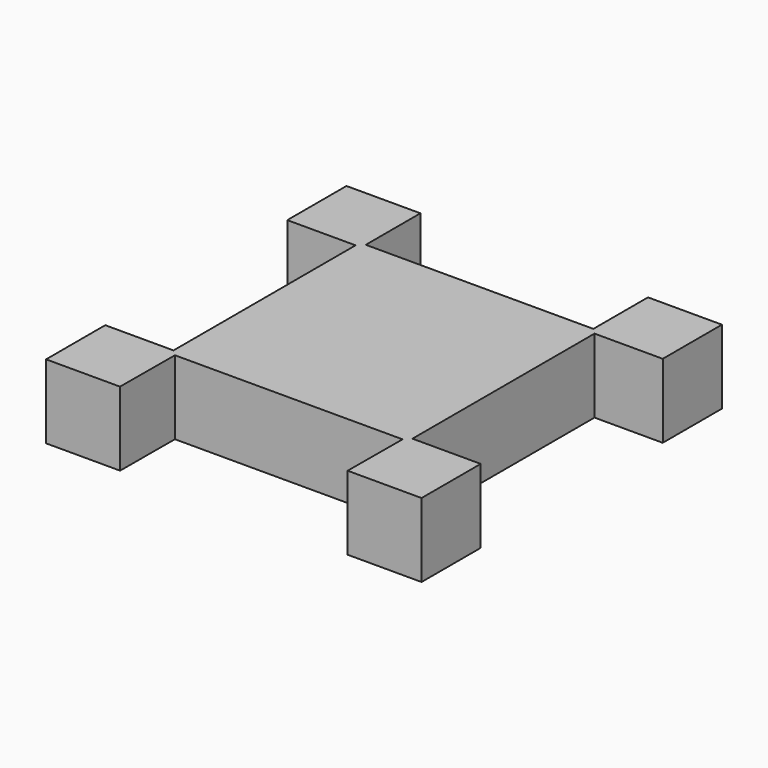
from build123d import *

# Parameters (mm, degrees)
F1_DEPTH = 6.5


with BuildPart() as f1:
    # F0 (on Top) → F1 (new body)
    with BuildSketch(Plane.XY):
        Polygon((-10, 16.5), (-16.5, 16.5), (-16.5, 10), (-10.5, 10), (-10.5, -10), (-16.5, -10), (-16.5, -16.5), (-10, -16.5), (-9.971203, -10.500069), (10.028797, -10.500069), (10, -16.5), (16.5, -16.5), (16.5, -10), (10.5, -10), (10.5, 10), (16.5, 10), (16.5, 16.5), (10, 16.5), (10, 10.5), (-10, 10.5), align=None)
        Polygon((-10, 16.5), (-16.5, 16.5), (-16.5, 10), (-10.5, 10), (-10.5, -10), (-16.5, -10), (-16.5, -16.5), (-10, -16.5), (-9.971203, -10.500069), (10.028797, -10.500069), (10, -16.5), (16.5, -16.5), (16.5, -10), (10.5, -10), (10.5, 10), (16.5, 10), (16.5, 16.5), (10, 16.5), (10, 10.5), (-10, 10.5), align=None)
        Polygon((-10, 16.5), (-16.5, 16.5), (-16.5, 10), (-10.5, 10), (-10.5, -10), (-16.5, -10), (-16.5, -16.5), (-10, -16.5), (-9.971203, -10.500069), (10.028797, -10.500069), (10, -16.5), (16.5, -16.5), (16.5, -10), (10.5, -10), (10.5, 10), (16.5, 10), (16.5, 16.5), (10, 16.5), (10, 10.5), (-10, 10.5), align=None)
        Polygon((-10, 16.5), (-16.5, 16.5), (-16.5, 10), (-10.5, 10), (-10.5, -10), (-16.5, -10), (-16.5, -16.5), (-10, -16.5), (-9.971203, -10.500069), (10.028797, -10.500069), (10, -16.5), (16.5, -16.5), (16.5, -10), (10.5, -10), (10.5, 10), (16.5, 10), (16.5, 16.5), (10, 16.5), (10, 10.5), (-10, 10.5), align=None)
    extrude(amount=F1_DEPTH)


solid = f1.part
